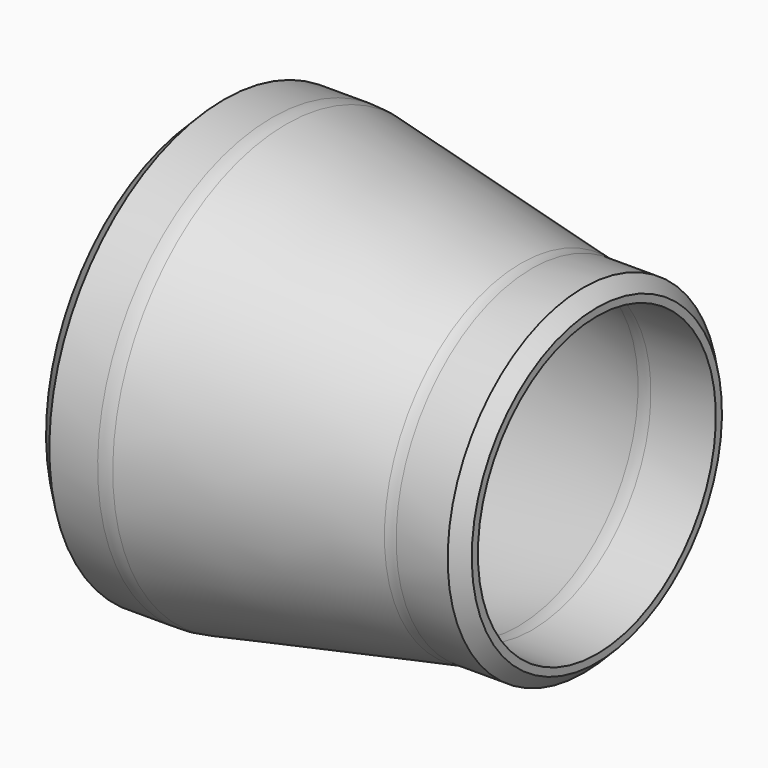
from build123d import *

# Parameters (mm, degrees)
F4_SIZE = 3.5
F5_SIZE = 4.35


with BuildPart() as f3:
    # F2 (on Front) → F3 (revolve)
    with BuildSketch(Plane.XZ):
        with BuildLine():
            Line((0, 57.15), (0, 50.8))
            Line((0, 50.8), (17, 50.8))
            ThreePointArc((17, 50.8), (18.1432578461, 50.7484371168), (19.2772322795, 50.5941671649))
            Line((19.2772322795, 50.5941671649), (81.3570260515, 39.2792785118))
            ThreePointArc((81.3570260515, 39.2792785118), (83.1710875139, 39.0324870796), (85, 38.95))
            Line((85, 38.95), (102, 38.95))
            Line((102, 38.95), (102, 44.45))
            Line((102, 44.45), (85, 44.45))
            ThreePointArc((85, 44.45), (83.5664884716, 44.5195091165), (82.1464269481, 44.7273842927))
            Line((82.1464269481, 44.7273842927), (20.6688796382, 56.7933630522))
            ThreePointArc((20.6688796382, 56.7933630522), (18.8430862508, 57.0606311359), (17, 57.15))
            Line((17, 57.15), (0, 57.15))
        make_face()
    revolve(axis=Axis((51, 0, 0), (-1, 0, 0)))

    # F4
    f4_edges = [f3.edges().sort_by_distance(p)[0] for p in [
        (102, 0, -44.45),
    ]]
    chamfer(f4_edges, length=F4_SIZE)

    # F5
    f5_edges = [f3.edges().sort_by_distance(p)[0] for p in [
        (0, 0, -57.15),
    ]]
    chamfer(f5_edges, length=F5_SIZE)


solid = f3.part
